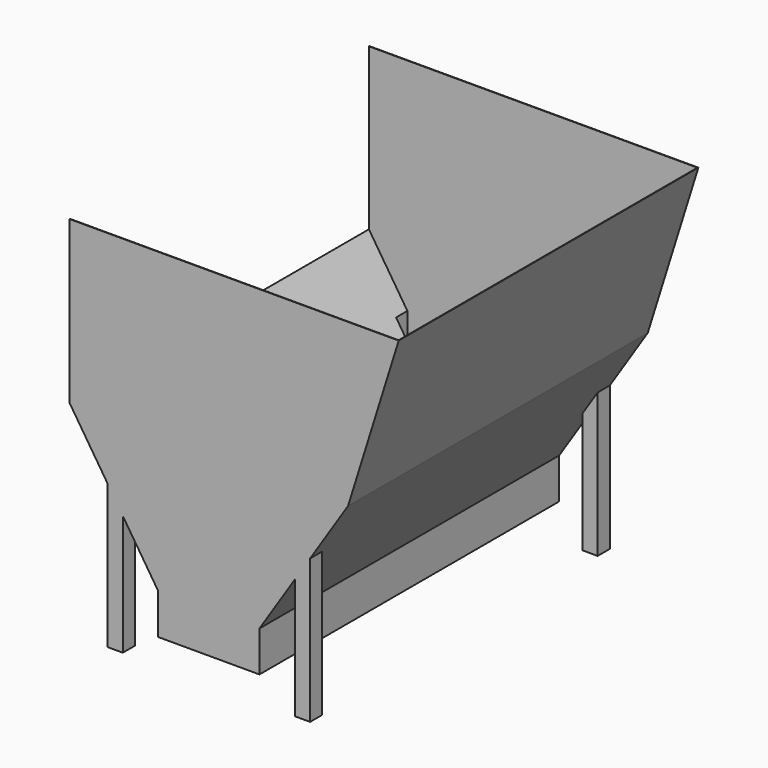
from build123d import *

# Parameters (mm, degrees)
F1_DEPTH = 1879.6
F2_W     = 76.2
F2_H     = 76.2
F4_T     = -2.54


with BuildPart() as f1:
    # F0 (on Front) → F1 (new body)
    with BuildSketch(Plane.XZ):
        Polygon((-254, 127), (0, 127), (254, 127), (254, 330.2), (698.5, 1016), (952.5, 1828.8), (0, 1828.8), (-698.5, 1828.8), (-698.5, 1016), (-254, 330.2), align=None)
    extrude(amount=F1_DEPTH)

    # F2 (on Top) → F3 (join, up to the next surface of F1)
    with BuildSketch(Plane.XY):
        with Locations((-469.9, -1841.5)):
            Rectangle(F2_W, F2_H)
        with Locations((469.9, -1841.5)):
            Rectangle(F2_W, F2_H)
        with Locations((-469.9, -38.1)):
            Rectangle(F2_W, F2_H)
        with Locations((469.9, -38.1)):
            Rectangle(F2_W, F2_H)
    extrude(until=Until.NEXT)

    # F4
    f4_openings = [f1.faces().sort_by_distance(p)[0] for p in [
        (127, -939.8, 1828.8),
        (-698.5, -939.8, 1422.4),
    ]]
    offset(amount=F4_T, openings=f4_openings, kind=Kind.INTERSECTION)


solid = f1.part
